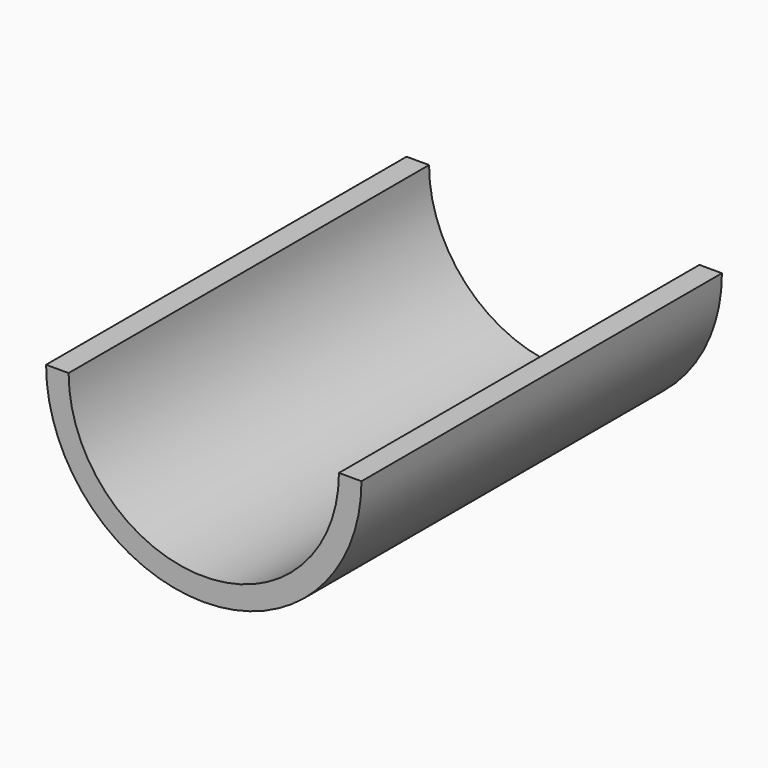
from build123d import *

# Parameters (mm, degrees)
F0_R     = 17.5
F0_R_2   = 15
F1_DEPTH = 25
F3_DEPTH = 25


with BuildPart() as f1:
    # F0 (on Front) → F1 (new body, symmetric)
    with BuildSketch(Plane.XZ):
        Circle(F0_R)
        Circle(F0_R_2, mode=Mode.SUBTRACT)
    extrude(amount=F1_DEPTH, both=True)

    # F2 (on Front) → F3 (cut, symmetric)
    with BuildSketch(Plane.XZ):
        with BuildLine():
            ThreePointArc((-13.55827, 0), (-0.319018, 13.938322), (12.920234, 0))
            Line((12.920234, 0), (19.619616, 0))
            ThreePointArc((19.619616, 0), (0.159509, 20.128697), (-19.300597, 0))
            Line((-19.300597, 0), (-13.55827, 0))
        make_face()
    extrude(amount=F3_DEPTH, both=True, mode=Mode.SUBTRACT)


solid = f1.part
